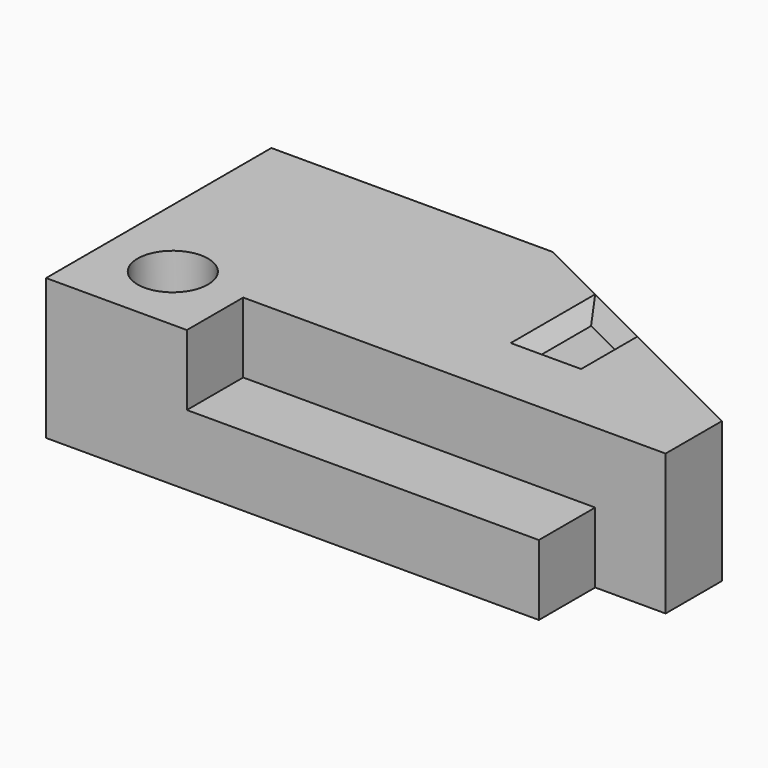
from build123d import *

# Parameters (mm, degrees)
F1_DEPTH = 12.7
F3_DEPTH = 12.7
F4_R     = 6.35
F5_DEPTH = 12.7
F7_DEPTH = 2.54
F7_TAPER = 45


with BuildPart() as f1:
    # F0 (on Top) → F1 (new body)
    with BuildSketch(Plane.XY):
        Polygon((-40.7569743693, 40.2890797282), (-40.7569743693, -10.5109202718), (48.1430256307, -10.5109202718), (48.1430256307, 2.1890797282), (60.8430256307, 2.1890797282), (60.8430256307, 14.8890797282), (10.0430256307, 40.2890797282), align=None)
    extrude(amount=F1_DEPTH)

    # F2 (on face) → F3 (join)
    with BuildSketch(Plane.XY.offset(12.7)):
        Polygon((-40.7569743693, 40.2890797282), (-40.7569743693, -10.5109202718), (-15.3569743693, -10.5109202718), (-15.3569743693, 2.1890797282), (48.1430256307, 2.1890797282), (60.8430256307, 2.1890797282), (60.8430256307, 14.8890797282), (10.0430256307, 40.2890797282), align=None)
    extrude(amount=F3_DEPTH)

    # F4 (on face) → F5 (cut)
    with BuildSketch(Plane.XY.offset(25.4)):
        with Locations((-28.0569743693, 2.1890797282)):
            Circle(F4_R)
    extrude(amount=-F5_DEPTH, mode=Mode.SUBTRACT)

    # F6 (on face) → F7 (cut)
    with BuildSketch(Plane.XY.offset(25.4)):
        Polygon((22.7430256307, 14.8890797282), (35.4430256307, 14.8890797282), (35.4430256307, 27.5890797282), (22.7430256307, 33.9390797282), align=None)
    extrude(amount=-F7_DEPTH, taper=F7_TAPER, mode=Mode.SUBTRACT)


solid = f1.part
